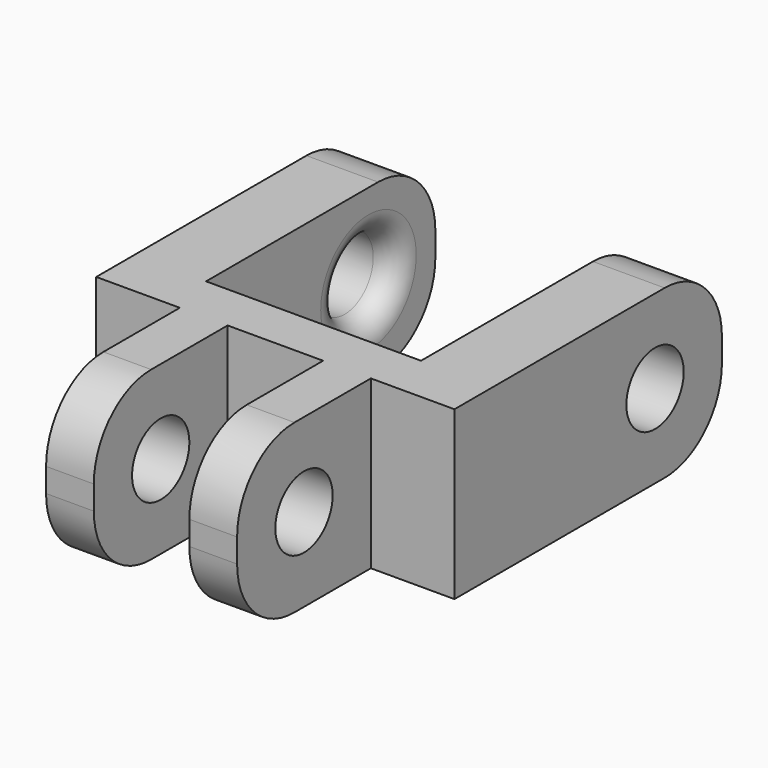
from build123d import *

# Parameters (mm, degrees)
F0_W     = 2
F0_H     = 7
F0_W_2   = 3
F0_H_2   = 12
F1_DEPTH = 7
F2_R     = 1.5
F3_DEPTH = 12
F4_R     = 3
F5_R     = 1.5
F6_DEPTH = 25
F7_R     = 1


with BuildPart() as f1:
    # F0 (on Top) → F1 (new body)
    with BuildSketch(Plane.XY):
        with Locations((-3, -4.5)):
            Rectangle(F0_W, F0_H)
        with Locations((-6, 7)):
            Rectangle(F0_W_2, F0_H_2)
        with Locations((6, 7)):
            Rectangle(F0_W_2, F0_H_2)
        Polygon((4, -1), (7.5, -1), (7.5, 1), (4.5, 1), (-4.5, 1), (-7.5, 1), (-7.5, -1), (-4, -1), (-2, -1), (2, -1), align=None)
        with Locations((3, -4.5)):
            Rectangle(F0_W, F0_H)
    extrude(amount=F1_DEPTH)

    # F2 (on face) → F3 (cut)
    with BuildSketch(Plane.YZ.offset(4)):
        with Locations((-4.5, 3.5)):
            Circle(F2_R)
    extrude(amount=-F3_DEPTH, mode=Mode.SUBTRACT)

    # F4
    f4_edges = [f1.edges().sort_by_distance(p)[0] for p in [
        (-3, -8, 0),
        (3, -8, 0),
        (3, -8, 7),
        (-3, -8, 7),
        (-6, 13, 0),
        (6, 13, 0),
        (-6, 13, 7),
        (6, 13, 7),
    ]]
    fillet(f4_edges, radius=F4_R)

    # F5 (on face) → F6 (cut)
    with BuildSketch(Plane(origin=(-7.5, 0, 0), x_dir=(0, -1, 0), z_dir=(-1, 0, 0))):
        with Locations((-9.5, 3.5)):
            Circle(F5_R)
    extrude(amount=-F6_DEPTH, mode=Mode.SUBTRACT)

    # F7
    f7_edges = [f1.edges().sort_by_distance(p)[0] for p in [
        (4.5, 11, 3.5),
        (-4.5, 11, 3.5),
    ]]
    fillet(f7_edges, radius=F7_R)


solid = f1.part
